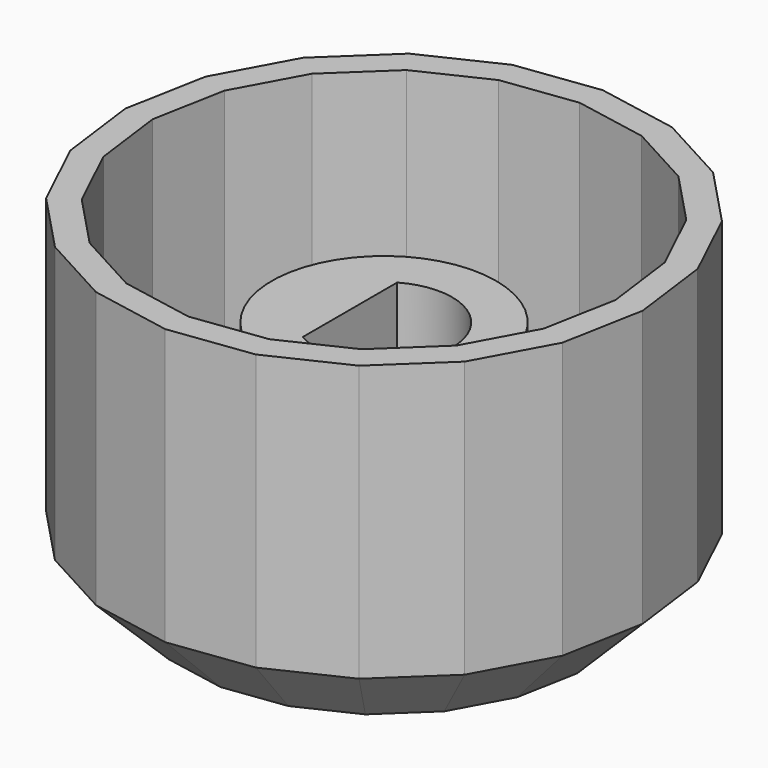
from build123d import *

# Parameters (mm, degrees)
F1_DEPTH = 15.5
F2_SIZE  = 3
F3_T     = -1.25
F4_DEPTH = 11


with BuildPart() as f1:
    # F0 (on Top) → F1 (new body)
    with BuildSketch(Plane.XY):
        Polygon((9.512444, -7.315286), (11.30742, -4.017743), (11.995546, -0.326916), (11.509465, 3.395912), (9.896757, 6.786325), (7.315286, 9.512444), (4.017743, 11.30742), (0.326916, 11.995546), (-3.395912, 11.509465), (-6.786325, 9.896757), (-9.512444, 7.315286), (-11.30742, 4.017743), (-11.995546, 0.326916), (-11.509465, -3.395912), (-9.896757, -6.786325), (-7.315286, -9.512444), (-4.017743, -11.30742), (-0.326916, -11.995546), (3.395912, -11.509465), (6.786325, -9.896757), align=None)
        with BuildLine():
            ThreePointArc((-3.545, 3.652544), (5.09, 0), (-3.545, -3.652544))
            ThreePointArc((-3.545, -3.652544), (-5.09, 0), (-3.545, 3.652544))
        make_face(mode=Mode.SUBTRACT)
        with BuildLine():
            Line((-3.545, 3.652544), (-3.545, -3.652544))
            ThreePointArc((-3.545, -3.652544), (5.09, 0), (-3.545, 3.652544))
        make_face()
        with BuildLine():
            ThreePointArc((-1.545, 2.676018), (3.09, 0), (-1.545, -2.676018))
            Line((-1.545, -2.676018), (-1.545, 2.676018))
        make_face(mode=Mode.SUBTRACT)
        with BuildLine():
            Line((-1.545, 2.676018), (-1.545, -2.676018))
            ThreePointArc((-1.545, -2.676018), (3.09, 0), (-1.545, 2.676018))
        make_face()
        with BuildLine():
            ThreePointArc((-3.545, 3.652544), (-5.09, 0), (-3.545, -3.652544))
            Line((-3.545, -3.652544), (-3.545, 3.652544))
        make_face()
    extrude(amount=F1_DEPTH)

    # F2
    f2_edges = [f1.edges().sort_by_distance(p)[0] for p in [
        (-10.703111, -5.091118, 0),
        (-8.606021, -8.149385, 0),
        (-5.666514, -10.409932, 0),
        (-2.172329, -11.651483, 0),
        (1.534498, -11.752505, 0),
        (5.091118, -10.703111, 0),
        (8.149385, -8.606021, 0),
        (10.409932, -5.666514, 0),
        (11.651483, -2.172329, 0),
        (11.752505, 1.534498, 0),
        (10.703111, 5.091118, 0),
        (8.606021, 8.149385, 0),
        (5.666514, 10.409932, 0),
        (2.172329, 11.651483, 0),
        (-1.534498, 11.752505, 0),
        (-5.091118, 10.703111, 0),
        (-8.149385, 8.606021, 0),
        (-10.409932, 5.666514, 0),
        (-11.651483, 2.172329, 0),
        (-11.752505, -1.534498, 0),
    ]]
    chamfer(f2_edges, length=F2_SIZE)

    # F3
    f3_openings = [f1.faces().sort_by_distance(p)[0] for p in [
        (0, 0, 15.5),
    ]]
    offset(amount=F3_T, openings=f3_openings)

    # F0 (on Top) → F4 (join)
    with BuildSketch(Plane.XY):
        with BuildLine():
            Line((-3.545, 3.652544), (-3.545, -3.652544))
            ThreePointArc((-3.545, -3.652544), (5.09, 0), (-3.545, 3.652544))
        make_face()
        with BuildLine():
            ThreePointArc((-1.545, 2.676018), (3.09, 0), (-1.545, -2.676018))
            Line((-1.545, -2.676018), (-1.545, 2.676018))
        make_face(mode=Mode.SUBTRACT)
        with BuildLine():
            ThreePointArc((-3.545, 3.652544), (-5.09, 0), (-3.545, -3.652544))
            Line((-3.545, -3.652544), (-3.545, 3.652544))
        make_face()
    extrude(amount=F4_DEPTH)


solid = f1.part
